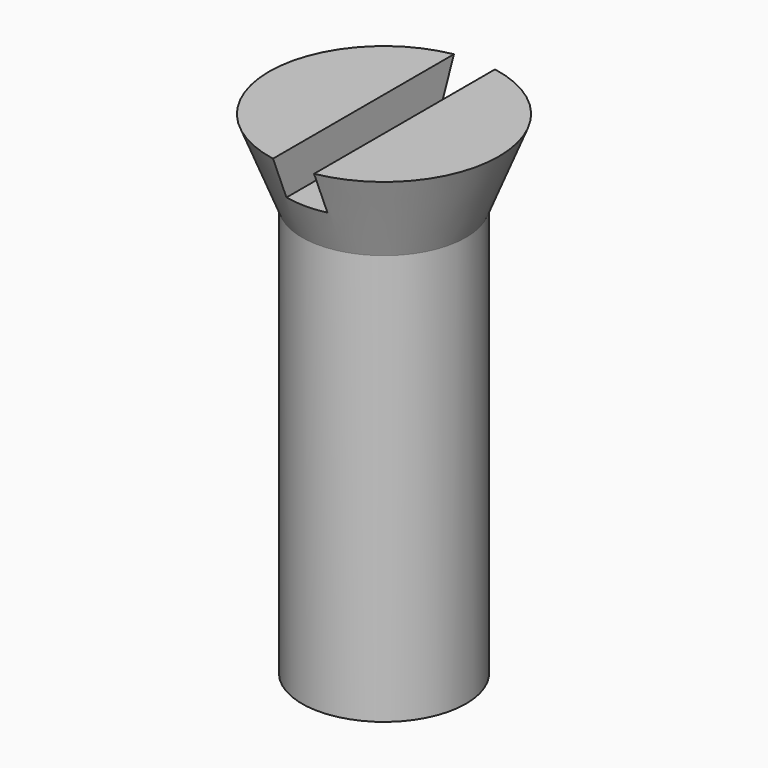
from build123d import *

# Parameters (mm, degrees)
BOX_W          = 1
BOX_H          = 10
BOX_DEPTH      = 4
CYLINDER_R     = 2
CYLINDER_DEPTH = 10


with BuildPart() as cub:
    # Box → Box (new body)
    with BuildSketch(Plane(origin=(-0.5, -6, 11), x_dir=(1, 0, 0), z_dir=(0, 0, 1))):
        with Locations((0.5, 5)):
            Rectangle(BOX_W, BOX_H)
    extrude(amount=BOX_DEPTH)


with BuildPart() as cilindre:
    # Cylinder → Cylinder (new body)
    with BuildSketch(Plane.XY):
        Circle(CYLINDER_R)
    extrude(amount=CYLINDER_DEPTH)


with BuildPart() as cut:
    # Cone → Cone (revolve)
    with BuildSketch(Plane(origin=(0, 0, 10), x_dir=(1, 0, 0), z_dir=(0, -1, 0))):
        Polygon((0, 0), (2, 0), (2.8, 2), (0, 2), align=None)
    revolve(axis=Axis((0, 0, 10), (0, 0, 1)))

    # Fusion: union Cilindre
    add(cilindre.part)

    # Cut: cut Cub
    add(cub.part, mode=Mode.SUBTRACT)


solid = cut.part
